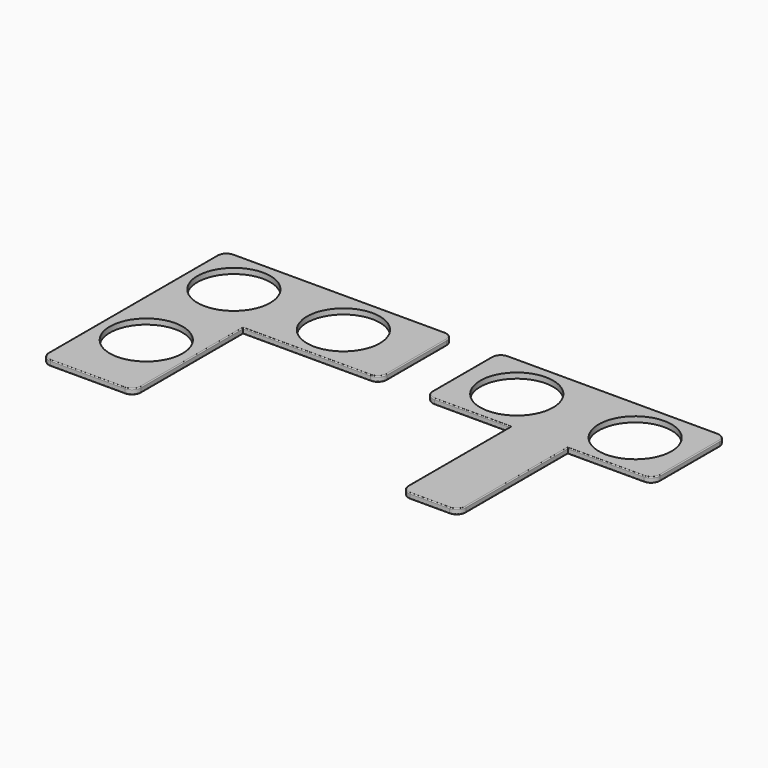
from build123d import *

# Parameters (mm, degrees)
F0_W     = 75
F0_H     = 50.8
F1_DEPTH = 3
F2_R     = 5
F3_R     = 0.5
F4_R     = 20
F5_DEPTH = 25
F6_W     = 31.55
F6_H     = 75
F7_DEPTH = 3
F8_R     = 20
F9_DEPTH = 25
F10_R    = 5
F11_R    = 0.5


with BuildPart() as f1:
    # F0 (on Top) → F1 (new body)
    with BuildSketch(Plane.XY):
        Polygon((0, -75), (0, 0), (0, 50.8), (-50.8, 50.8), (-50.8, -75), align=None)
        with Locations((37.5, 25.4)):
            Rectangle(F0_W, F0_H)
    extrude(amount=F1_DEPTH)

    # F2
    f2_edges = [f1.edges().sort_by_distance(p)[0] for p in [
        (0, -75, 1.5),
        (-50.8, -75, 1.5),
        (75, 0, 1.5),
        (75, 50.8, 1.5),
        (-50.8, 50.8, 1.5),
    ]]
    fillet(f2_edges, radius=F2_R)

    # F3
    f3_edges = [f1.edges().sort_by_distance(p)[0] for p in [
        (35, 0, 3),
        (35, 0, 0),
    ]]
    fillet(f3_edges, radius=F3_R)

    # F4 (on face) → F5 (cut)
    with BuildSketch(Plane.XY.offset(3)):
        with Locations((-25.4, 25.4)):
            Circle(F4_R)
        with Locations((-25.4, -34.75)):
            Circle(F4_R)
        with Locations((34.75, 25.4)):
            Circle(F4_R)
    extrude(amount=-F5_DEPTH, mode=Mode.SUBTRACT)


with BuildPart() as f7:
    # F6 (on Top) → F7 (new body)
    with BuildSketch(Plane.XY):
        Polygon((100, 50.6), (100, 0), (146.725, 0), (178.275, 0), (225, 0), (225, 50.6), align=None)
        with Locations((162.5, -37.5)):
            Rectangle(F6_W, F6_H)
    extrude(amount=F7_DEPTH)

    # F8 (on face) → F9 (cut)
    with BuildSketch(Plane.XY.offset(3)):
        with Locations((195, 25.3)):
            Circle(F8_R)
        with Locations((130, 25.3)):
            Circle(F8_R)
    extrude(amount=-F9_DEPTH, mode=Mode.SUBTRACT)

    # F10
    f10_edges = [f7.edges().sort_by_distance(p)[0] for p in [
        (146.725, -75, 1.5),
        (178.275, -75, 1.5),
        (225, 0, 1.5),
        (100, 0, 1.5),
        (100, 50.6, 1.5),
        (225, 50.6, 1.5),
    ]]
    fillet(f10_edges, radius=F10_R)

    # F11
    f11_edges = [f7.edges().sort_by_distance(p)[0] for p in [
        (100, 25.3, 3),
        (100, 25.3, 0),
        (146.725, -35, 0),
        (146.725, -35, 3),
    ]]
    fillet(f11_edges, radius=F11_R)


solid = Compound([f1.part, f7.part])
